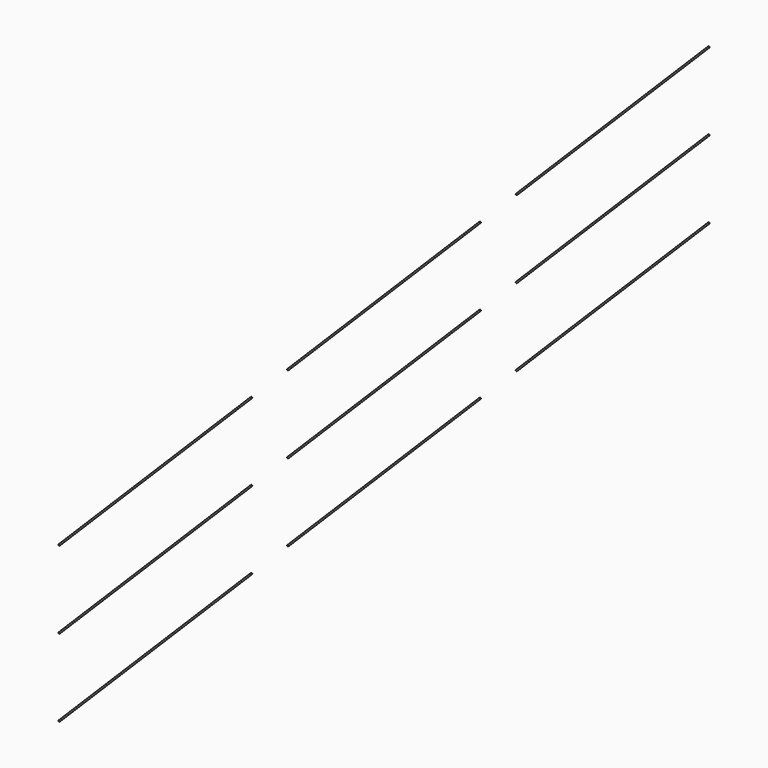
from build123d import *

# Parameters (mm, degrees)
CYLINDER_R           = 2
CYLINDER_DEPTH       = 749.533221
CYLINDER_PITCH_ANGLE = 45
ARRAY003_X_COUNT     = 3
ARRAY003_X_PITCH     = 890.954544
ARRAY003_Z_COUNT     = 3
ARRAY003_Z_PITCH     = 213.479044


with BuildPart() as ropes:
    # Cylinder → Cylinder (new body)
    with BuildSketch(Plane.XY):
        Circle(CYLINDER_R)
    extrude(amount=CYLINDER_DEPTH)


with BuildPart() as ropes_1:
    # Cylinder pitch: moved
    add(ropes.part.rotate(Axis((0, 0, 0), (0, 1, 0)), CYLINDER_PITCH_ANGLE))


with BuildPart() as ropes_2:
    # Cylinder placement: moved
    add(ropes_1.part.moved(Location((108.499953, -405, 675.269044))))


with BuildPart() as array003_copy1:
    # Array003 X: instance of ropes
    add(ropes_2.part.moved(Location(Vector(0.707107, 0, 0.707107) * (1 * ARRAY003_X_PITCH))))


with BuildPart() as array003_copy2:
    # Array003 X: instance of ropes
    add(ropes_2.part.moved(Location(Vector(0.707107, 0, 0.707107) * (2 * ARRAY003_X_PITCH))))


with BuildPart() as array003_copy3:
    # Array003 Z: instance of ropes
    add(ropes_2.part.moved(Location(Vector(0, 0, 1) * (1 * ARRAY003_Z_PITCH))))


with BuildPart() as array003_copy4:
    # Array003 Z: instance of ropes
    add(ropes_2.part.moved(Location(Vector(0, 0, 1) * (2 * ARRAY003_Z_PITCH))))


with BuildPart() as array003_copy5:
    # Array003 Z: instance of Array003 copy1
    add(array003_copy1.part.moved(Location(Vector(0, 0, 1) * (1 * ARRAY003_Z_PITCH))))


with BuildPart() as array003_copy6:
    # Array003 Z: instance of Array003 copy1
    add(array003_copy1.part.moved(Location(Vector(0, 0, 1) * (2 * ARRAY003_Z_PITCH))))


with BuildPart() as array003_copy7:
    # Array003 Z: instance of Array003 copy2
    add(array003_copy2.part.moved(Location(Vector(0, 0, 1) * (1 * ARRAY003_Z_PITCH))))


with BuildPart() as array003_copy8:
    # Array003 Z: instance of Array003 copy2
    add(array003_copy2.part.moved(Location(Vector(0, 0, 1) * (2 * ARRAY003_Z_PITCH))))


solid = Compound([ropes_2.part, array003_copy1.part, array003_copy2.part, array003_copy3.part, array003_copy4.part, array003_copy5.part, array003_copy6.part, array003_copy7.part, array003_copy8.part])
